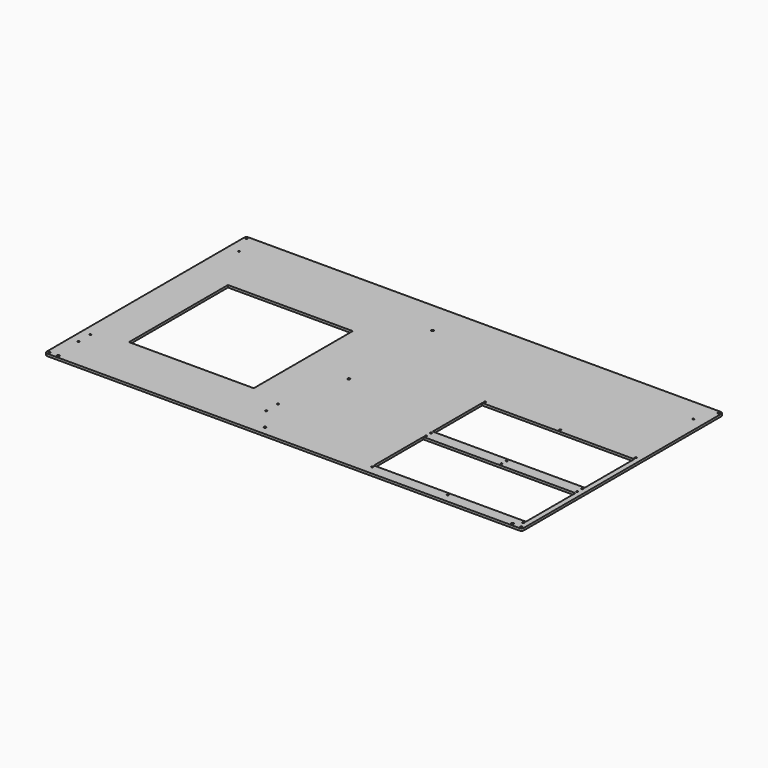
from build123d import *

# Parameters (mm, degrees)
F0_W     = 717.448502
F0_H     = 378.451567
F1_DEPTH = 3.41884
F2_R     = 3.96875
F3_R     = 1.35255
F3_R_2   = 1.8288
F3_W     = 187.552764
F3_H     = 185.988784
F3_W_2   = 228.6
F3_H_2   = 93.0783
F4_DEPTH = 3.41884


with BuildPart() as f1:
    # F0 (on Top) → F1 (new body)
    with BuildSketch(Plane.XY):
        with Locations((-358.724251, -189.225783)):
            Rectangle(F0_W, F0_H)
    extrude(amount=F1_DEPTH)

    # F2
    f2_edges = [f1.edges().sort_by_distance(p)[0] for p in [
        (-717.448502, 0, 1.70942),
        (-717.448502, -378.451567, 1.70942),
        (0, -378.451567, 1.70942),
        (0, 0, 1.70942),
    ]]
    fillet(f2_edges, radius=F2_R)

    # F3 (on face) → F4 (cut, through all)
    with BuildSketch(Plane.XY.offset(3.41884)):
        with Locations((-713.479752, -3.96875)):
            Circle(F3_R)
        with Locations((-3.96875, -3.96875)):
            Circle(F3_R)
        with Locations((-713.479752, -374.482817)):
            Circle(F3_R)
        with Locations((-3.96875, -374.482817)):
            Circle(F3_R)
        with Locations((-704.147131, -309.107129)):
            Circle(F3_R)
        with Locations((-704.147131, -331.394638)):
            Circle(F3_R)
        with Locations((-422.20327, -331.394638)):
            Circle(F3_R)
        with Locations((-422.20327, -309.107129)):
            Circle(F3_R)
        with Locations((-17.15643, -374.482817)):
            Circle(F3_R_2)
        with Locations((-700.292072, -374.482817)):
            Circle(F3_R_2)
        with Locations((-700.292072, -34.632519)):
            Circle(F3_R)
        with Locations((-17.15643, -34.632519)):
            Circle(F3_R)
        with Locations((-396.99819, -49.956339)):
            Circle(F3_R_2)
        with Locations((-563.175201, -202.646375)):
            Rectangle(F3_W, F3_H)
        with Locations((-122.2375, -314.449917)):
            Rectangle(F3_W_2, F3_H_2)
        with Locations((-235.74375, -364.957817)):
            Circle(F3_R)
        with Locations((-122.2375, -364.957817)):
            Circle(F3_R)
        with Locations((-8.73125, -364.957817)):
            Circle(F3_R)
        with Locations((-235.74375, -263.942017)):
            Circle(F3_R)
        with Locations((-122.2375, -263.942017)):
            Circle(F3_R)
        with Locations((-8.73125, -263.942017)):
            Circle(F3_R)
        with Locations((-122.2375, -203.909117)):
            Rectangle(F3_W_2, F3_H_2)
        with Locations((-235.74375, -254.417017)):
            Circle(F3_R)
        with Locations((-122.2375, -254.417017)):
            Circle(F3_R)
        with Locations((-8.73125, -254.417017)):
            Circle(F3_R)
        with Locations((-8.73125, -153.401217)):
            Circle(F3_R)
        with Locations((-235.74375, -153.401217)):
            Circle(F3_R)
        with Locations((-122.2375, -153.401217)):
            Circle(F3_R)
        with Locations((-396.99819, -207.457078)):
            Circle(F3_R_2)
        with Locations((-396.99819, -364.957817)):
            Circle(F3_R_2)
    extrude(amount=-F4_DEPTH, mode=Mode.SUBTRACT)


solid = f1.part
